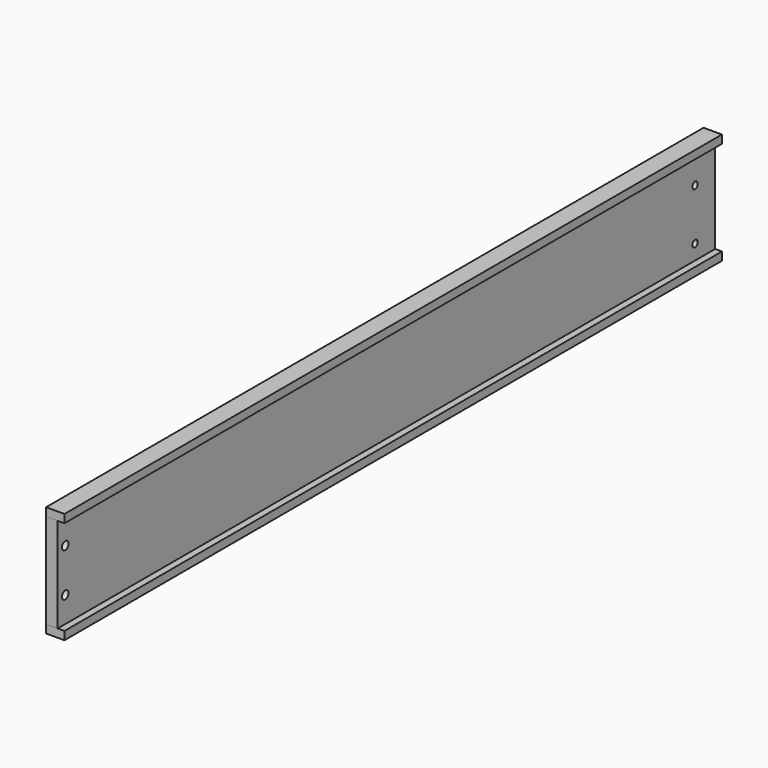
from build123d import *

# Parameters (mm, degrees)
F0_W     = 850
F0_H     = 8.5
F1_DEPTH = 19
F0_W_2   = 26
F0_H_2   = 33.5
F2_DEPTH = 12
F3_D     = 7
F3_DEPTH = 12
F3_TIP   = 2.1030121666
F4_D     = 15
F4_DEPTH = 10
F4_TIP   = 4.5064546427


with BuildPart() as f1:
    # F0 (on Right) → F1 (new body)
    with BuildSketch(Plane.YZ):
        with Locations((418.7703758478, 21.7847777605)):
            Rectangle(F0_W, F0_H)
    extrude(amount=F1_DEPTH)


with BuildPart() as f1b:
    # F0 (on Right) → F1, piece 2 (new body)
    with BuildSketch(Plane.YZ):
        with Locations((418.7703758478, -84.7152222395)):
            Rectangle(F0_W, F0_H)
    extrude(amount=F1_DEPTH)


with BuildPart() as f2:
    # F0 (on Right) → F2 (new body)
    with BuildSketch(Plane.YZ):
        Polygon((843.7703758478, -31.4652222395), (843.7703758478, 17.5347777605), (-6.2296241522, 17.5347777605), (-6.2296241522, -8.9652222395), (-6.2296241522, -31.4652222395), (817.7703758478, -31.4652222395), align=None)
        Polygon((843.7703758478, -80.4652222395), (843.7703758478, -64.9652222395), (817.7703758478, -64.9652222395), (817.7703758478, -31.4652222395), (-6.2296241522, -31.4652222395), (-6.2296241522, -53.9652222395), (-6.2296241522, -80.4652222395), align=None)
        with Locations((830.7703758478, -48.2152222395)):
            Rectangle(F0_W_2, F0_H_2)
    extrude(amount=F2_DEPTH)

    # F3
    with Locations(Plane(origin=(0, 0, 0), x_dir=(0, 1, 0), z_dir=(-1, 0, 0))):
        with Locations((817.7703758478, 11.9652222395), (817.7703758478, 64.9652222395)):
            Hole(F3_D / 2, depth=F3_DEPTH)
            with Locations((0, 0, -(F3_DEPTH + F3_TIP / 2))):  # 118° drill point
                Cone(0, F3_D / 2, F3_TIP, mode=Mode.SUBTRACT)

    # F4
    with Locations(Plane(origin=(0, 0, 0), x_dir=(0, 1, 0), z_dir=(-1, 0, 0))):
        with Locations((3.5703758478, 53.9652222395), (3.5703758478, 8.9652222395)):
            Hole(F4_D / 2, depth=F4_DEPTH)
            with Locations((0, 0, -(F4_DEPTH + F4_TIP / 2))):  # 118° drill point
                Cone(0, F4_D / 2, F4_TIP, mode=Mode.SUBTRACT)


solid = Compound([f1.part, f1b.part, f2.part])
